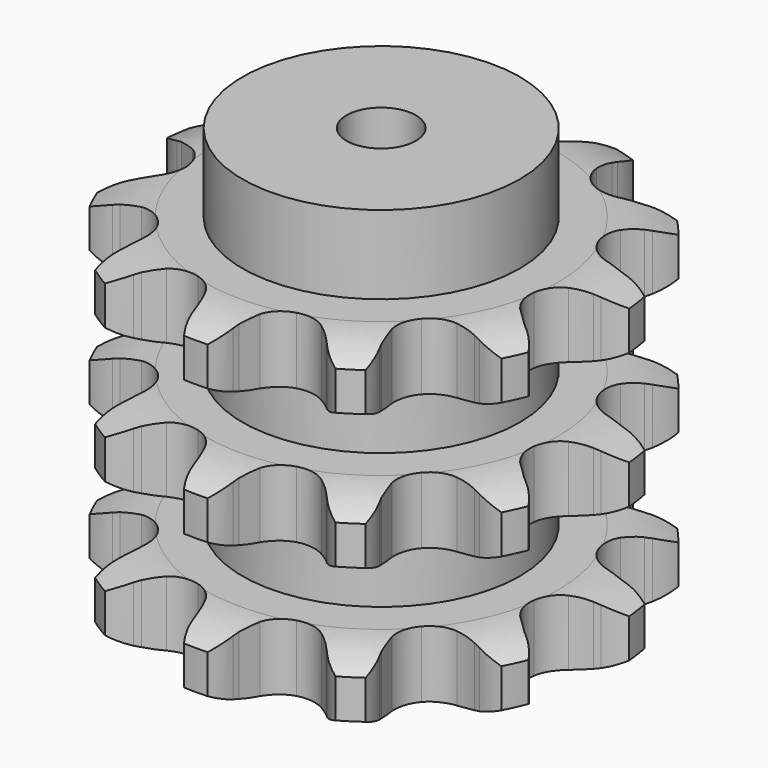
from build123d import *

# Parameters (mm, degrees)
PAD_DEPTH         = 146
SKETCH001_R       = 60
PAD001_DEPTH      = 180
SKETCH002_R       = 15
POCKET_DEPTH      = 0.001
POCKET_DEPTH_BACK = 180.001


with BuildPart() as part:
    # Sprocket → Pad (new body)
    with BuildSketch(Plane.XY):
        with BuildLine():
            ThreePointArc((-29.83063, 101.593796), (-22.517795, 96.966518), (-17.239006, 90.109138))
            Line((-17.239006, 90.109138), (-15.985869, 87.706539))
            ThreePointArc((-15.985869, 87.706539), (-13.79197, 84.022252), (-11.197808, 80.607946))
            ThreePointArc((-11.197808, 80.607946), (-6.16635, 76.794521), (0, 75.4403))
            ThreePointArc((0, 75.4403), (6.16635, 76.794521), (11.197808, 80.607946))
            ThreePointArc((11.197808, 80.607946), (13.79197, 84.022252), (15.985869, 87.706539))
            Line((15.985869, 87.706539), (17.239006, 90.109138))
            ThreePointArc((17.239006, 90.109138), (22.517795, 96.966518), (29.83063, 101.593796))
            ThreePointArc((29.83063, 101.593796), (33.480883, 93.747465), (34.214303, 85.124741))
            Line((34.214303, 85.124741), (33.969566, 82.426049))
            ThreePointArc((33.969566, 82.426049), (33.823316, 78.140519), (34.159751, 73.865712))
            ThreePointArc((34.159751, 73.865712), (36.330789, 67.937442), (40.786105, 63.464419))
            ThreePointArc((40.786105, 63.464419), (46.705716, 61.269882), (53.000141, 61.757728))
            Line((53.000141, 61.757728), (60.865904, 65.140822))
            ThreePointArc((60.865904, 65.140822), (62.030524, 65.833607), (63.219053, 66.48452))
            ThreePointArc((63.219053, 66.48452), (71.367232, 69.399387), (80.020876, 69.338484))
            ThreePointArc((80.020876, 69.338484), (78.849617, 60.764254), (74.804813, 53.11384))
            Line((74.804813, 53.11384), (73.139904, 50.975871))
            ThreePointArc((73.139904, 50.975871), (70.699938, 47.449722), (68.67183, 43.671635))
            ThreePointArc((68.67183, 43.671635), (67.293159, 37.510706), (68.62291, 31.339033))
            ThreePointArc((68.62291, 31.339033), (72.416348, 26.292488), (77.975305, 23.299867))
            Line((77.975305, 23.299867), (86.421444, 21.893355))
            ThreePointArc((86.421444, 21.893355), (87.775732, 21.846521), (89.127497, 21.751537))
            ThreePointArc((89.127497, 21.751537), (97.558077, 19.798441), (104.805059, 15.068693))
            ThreePointArc((104.805059, 15.068693), (99.184155, 8.488822), (91.645323, 4.239671))
            Line((91.645323, 4.239671), (89.088839, 3.341214))
            ThreePointArc((89.088839, 3.341214), (85.129829, 1.693974), (81.381088, -0.387877))
            ThreePointArc((81.381088, -0.387877), (76.890427, -4.825415), (74.672426, -10.736274))
            ThreePointArc((74.672426, -10.736274), (75.1353, -17.032585), (78.19386, -22.555537))
            Line((78.19386, -22.555537), (84.538787, -28.305098))
            ThreePointArc((84.538787, -28.305098), (85.652766, -29.07668), (86.73859, -29.887406))
            ThreePointArc((86.73859, -29.887406), (92.774922, -36.08837), (96.314377, -43.985302))
            ThreePointArc((96.314377, -43.985302), (88.028424, -46.481751), (79.389091, -45.980564))
            Line((79.389091, -45.980564), (76.752697, -45.354255))
            ThreePointArc((76.752697, -45.354255), (72.531601, -44.599599), (68.252426, -44.32424))
            ThreePointArc((68.252426, -44.32424), (62.075527, -45.6295), (57.013974, -49.40289))
            ThreePointArc((57.013974, -49.40289), (53.999326, -54.949933), (53.586417, -61.249718))
            Line((53.586417, -61.249718), (55.815662, -69.516882))
            ThreePointArc((55.815662, -69.516882), (56.335652, -70.768242), (56.810794, -72.037308))
            ThreePointArc((56.810794, -72.037308), (58.536385, -80.517379), (57.24456, -89.074274))
            ThreePointArc((57.24456, -89.074274), (48.924291, -86.694697), (41.927383, -81.602295))
            Line((41.927383, -81.602295), (40.048116, -79.650068))
            ThreePointArc((40.048116, -79.650068), (36.905102, -76.733114), (33.454101, -74.187971))
            ThreePointArc((33.454101, -74.187971), (27.552086, -71.946542), (21.253988, -72.384437))
            ThreePointArc((21.253988, -72.384437), (15.718948, -75.421065), (11.965665, -80.497545))
            Line((11.965665, -80.497545), (9.371458, -88.657548))
            ThreePointArc((9.371458, -88.657548), (9.132366, -89.991386), (8.845972, -91.315874))
            ThreePointArc((8.845972, -91.315874), (5.712959, -99.382688), (0, -105.882793))
            ThreePointArc((0, -105.882793), (-5.712959, -99.382688), (-8.845972, -91.315874))
            Line((-8.845972, -91.315874), (-9.371458, -88.657548))
            ThreePointArc((-9.371458, -88.657548), (-10.438506, -84.504408), (-11.965665, -80.497545))
            ThreePointArc((-11.965665, -80.497545), (-15.718948, -75.421065), (-21.253988, -72.384437))
            ThreePointArc((-21.253988, -72.384437), (-27.552086, -71.946542), (-33.454101, -74.187971))
            Line((-33.454101, -74.187971), (-40.048116, -79.650068))
            ThreePointArc((-40.048116, -79.650068), (-40.970381, -80.642901), (-41.927383, -81.602295))
            ThreePointArc((-41.927383, -81.602295), (-48.924291, -86.694697), (-57.24456, -89.074274))
            ThreePointArc((-57.24456, -89.074274), (-58.536385, -80.517379), (-56.810794, -72.037308))
            Line((-56.810794, -72.037308), (-55.815662, -69.516882))
            ThreePointArc((-55.815662, -69.516882), (-54.467962, -65.446149), (-53.586417, -61.249718))
            ThreePointArc((-53.586417, -61.249718), (-53.999326, -54.949933), (-57.013974, -49.40289))
            ThreePointArc((-57.013974, -49.40289), (-62.075527, -45.6295), (-68.252426, -44.32424))
            Line((-68.252426, -44.32424), (-76.752697, -45.354255))
            ThreePointArc((-76.752697, -45.354255), (-78.065322, -45.690865), (-79.389091, -45.980564))
            ThreePointArc((-79.389091, -45.980564), (-88.028424, -46.481751), (-96.314377, -43.985302))
            ThreePointArc((-96.314377, -43.985302), (-92.774922, -36.08837), (-86.73859, -29.887406))
            Line((-86.73859, -29.887406), (-84.538787, -28.305098))
            ThreePointArc((-84.538787, -28.305098), (-81.204225, -25.609201), (-78.19386, -22.555537))
            ThreePointArc((-78.19386, -22.555537), (-75.1353, -17.032585), (-74.672426, -10.736274))
            ThreePointArc((-74.672426, -10.736274), (-76.890427, -4.825415), (-81.381088, -0.387877))
            Line((-81.381088, -0.387877), (-89.088839, 3.341214))
            ThreePointArc((-89.088839, 3.341214), (-90.375075, 3.767698), (-91.645323, 4.239671))
            ThreePointArc((-91.645323, 4.239671), (-99.184155, 8.488822), (-104.805059, 15.068693))
            ThreePointArc((-104.805059, 15.068693), (-97.558077, 19.798441), (-89.127497, 21.751537))
            Line((-89.127497, 21.751537), (-86.421444, 21.893355))
            ThreePointArc((-86.421444, 21.893355), (-82.15872, 22.358488), (-77.975305, 23.299867))
            ThreePointArc((-77.975305, 23.299867), (-72.416348, 26.292488), (-68.62291, 31.339033))
            ThreePointArc((-68.62291, 31.339033), (-67.293159, 37.510706), (-68.67183, 43.671635))
            Line((-68.67183, 43.671635), (-73.139904, 50.975871))
            ThreePointArc((-73.139904, 50.975871), (-73.99138, 52.030043), (-74.804813, 53.11384))
            ThreePointArc((-74.804813, 53.11384), (-78.849617, 60.764254), (-80.020876, 69.338484))
            ThreePointArc((-80.020876, 69.338484), (-71.367232, 69.399387), (-63.219053, 66.48452))
            Line((-63.219053, 66.48452), (-60.865904, 65.140822))
            ThreePointArc((-60.865904, 65.140822), (-57.028402, 63.227515), (-53.000141, 61.757728))
            ThreePointArc((-53.000141, 61.757728), (-46.705716, 61.269882), (-40.786105, 63.464419))
            ThreePointArc((-40.786105, 63.464419), (-36.330789, 67.937442), (-34.159751, 73.865712))
            Line((-34.159751, 73.865712), (-33.969566, 82.426049))
            ThreePointArc((-33.969566, 82.426049), (-34.115944, 83.773218), (-34.214303, 85.124741))
            ThreePointArc((-34.214303, 85.124741), (-33.480883, 93.747465), (-29.83063, 101.593796))
        make_face()
    extrude(amount=PAD_DEPTH)

    # Sketch → Groove (revolve, cut)
    with BuildSketch(Plane.XZ):
        with BuildLine():
            ThreePointArc((76.4, 0), (88.769317, 1.522732), (100.4, 6))
            Line((100.4, 6), (100.4, 22.8))
            ThreePointArc((100.4, 22.8), (88.769317, 27.277268), (76.4, 28.8))
            Line((60, 28.8), (76.4, 28.8))
            Line((60, 28.8), (60, 58.6))
            Line((60, 58.6), (76.4, 58.6))
            ThreePointArc((76.4, 58.6), (88.769317, 60.122732), (100.4, 64.6))
            Line((100.4, 81.4), (100.4, 64.6))
            ThreePointArc((100.4, 81.4), (88.769317, 85.877268), (76.4, 87.4))
            Line((60, 87.4), (76.4, 87.4))
            Line((60, 117.2), (60, 87.4))
            Line((76.4, 117.2), (60, 117.2))
            ThreePointArc((76.4, 117.2), (88.769317, 118.722732), (100.4, 123.2))
            Line((100.4, 123.2), (100.4, 140))
            ThreePointArc((100.4, 140), (88.769317, 144.477268), (76.4, 146))
            Line((76.4, 146), (110.4, 146))
            Line((110.4, 146), (110.4, 0))
            Line((76.4, 0), (110.4, 0))
        make_face()
    revolve(axis=Axis((0, 0, 0), (0, 0, 1)), mode=Mode.SUBTRACT)

    # Sketch001 → Pad001 (join)
    with BuildSketch(Plane.XY):
        Circle(SKETCH001_R)
    extrude(amount=PAD001_DEPTH)

    # Sketch002 → Pocket (cut, two sides)
    with BuildSketch(Plane.XY) as pocket_sk:
        Circle(SKETCH002_R)
    extrude(amount=-POCKET_DEPTH, mode=Mode.SUBTRACT)
    extrude(pocket_sk.sketch, amount=POCKET_DEPTH_BACK, mode=Mode.SUBTRACT)


solid = part.part
